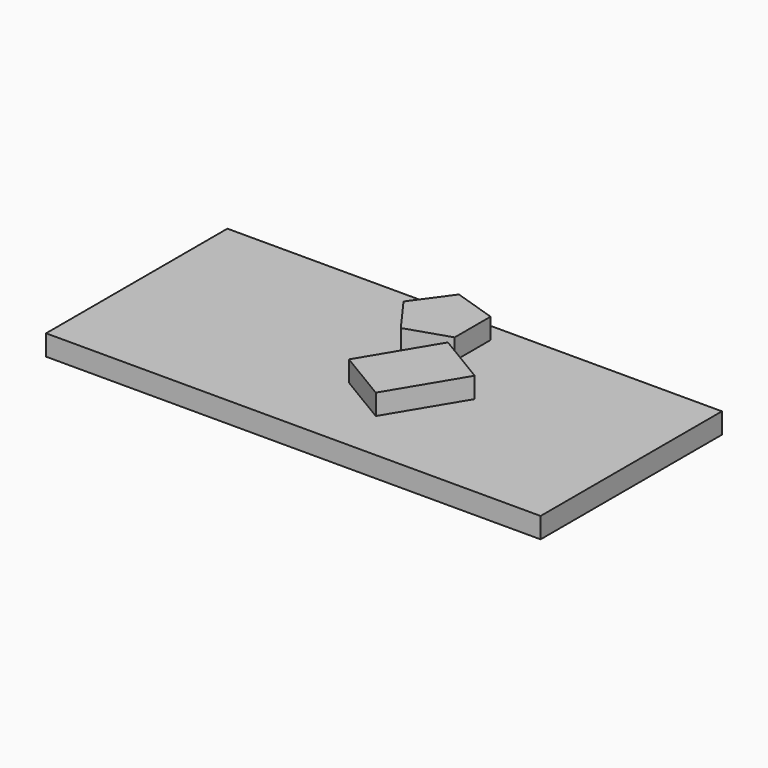
from build123d import *

# Parameters (mm, degrees)
F0_W     = 609.6
F0_H     = 457.2
F1_DEPTH = 25.4
F3_DEPTH = 25.4
F4_W     = 177.8
F4_H     = 25.4
F5_DEPTH = 609.601


with BuildPart() as f1:
    # F0 (on Top) → F1 (new body)
    with BuildSketch(Plane.XY):
        Rectangle(F0_W, F0_H)
    extrude(amount=F1_DEPTH)

    # F4 (on face) → F5 (cut, through all)
    with BuildSketch(Plane.YZ.offset(304.8)):
        with Locations((139.7, 12.7)):
            Rectangle(F4_W, F4_H)
    extrude(amount=-F5_DEPTH, mode=Mode.SUBTRACT)


with BuildPart() as f3:
    # F2 (on face) → F3 (new body)
    with BuildSketch(Plane.XY.offset(25.4)):
        Polygon((-12.7, -127), (50.8, -165.1), (103.072769, -77.978719), (39.572769, -39.878719), align=None)
        Polygon((38.1, -27.68127), (38.1, 27.68127), (-14.552905, 44.789236), (-47.09419, 0), (-14.552905, -44.789236), align=None)
    extrude(amount=F3_DEPTH)


solid = Compound([f1.part, f3.part])
